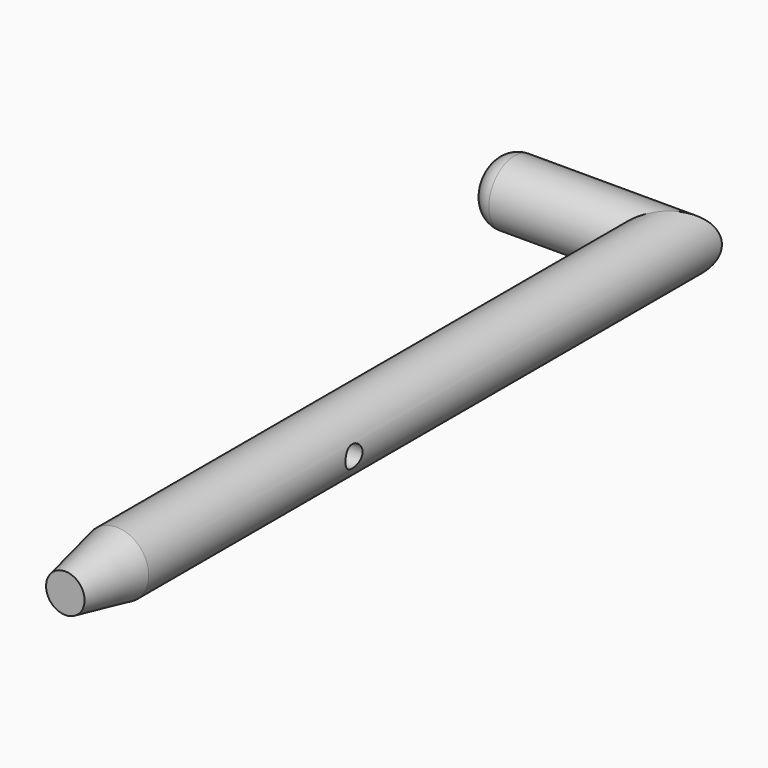
from build123d import *

# Parameters (mm, degrees)
F0_R      = 7.5
F1_DEPTH  = 75
F1_FACE_R = 7.5
F4_R      = 2.5
F5_DEPTH  = 7.5
F7_D      = 5
F8_SIZE2  = 3
F8_SIZE   = 15
F9_R      = 5


with BuildPart() as f1:
    # F0 (on Front) → F1 (new body)
    with BuildSketch(Plane.XZ):
        Circle(F0_R)
    extrude(amount=F1_DEPTH)

    # F3: sweep along a path in F2
    with BuildLine(Plane.XY) as f3_path:
        Line((0, 0), (0, 100))
        Line((0, 100), (-40, 100))
    # F1_face (on face) → F3 (sweep)
    with BuildSketch(Plane(origin=(0, 0, 0), x_dir=(1, 0, 0), z_dir=(0, 1, 0))):
        Circle(F1_FACE_R)
    sweep(path=f3_path.line, transition=Transition.RIGHT)

    # F4 (on Right) → F5 (join, symmetric)
    with BuildSketch(Plane.YZ):
        Circle(F4_R)
    extrude(amount=F5_DEPTH, both=True)

    # F7 (through all)
    with Locations(Plane(origin=(-7.5, 0, 0), x_dir=(0, -1, 0), z_dir=(-1, 0, 0))):
        with Locations((0, 0)):
            Hole(F7_D / 2)

    # F8
    f8_edges = [f1.edges().sort_by_distance(p)[0] for p in [
        (-7.5, -75, 0),
    ]]
    f8_side = f1.faces().sort_by_distance((-7.5, 16.25, 0))[0]
    chamfer(f8_edges, length=F8_SIZE, length2=F8_SIZE2, reference=f8_side)

    # F9
    f9_edges = [f1.edges().sort_by_distance(p)[0] for p in [
        (-40, 92.5, 0),
    ]]
    fillet(f9_edges, radius=F9_R)


solid = f1.part
